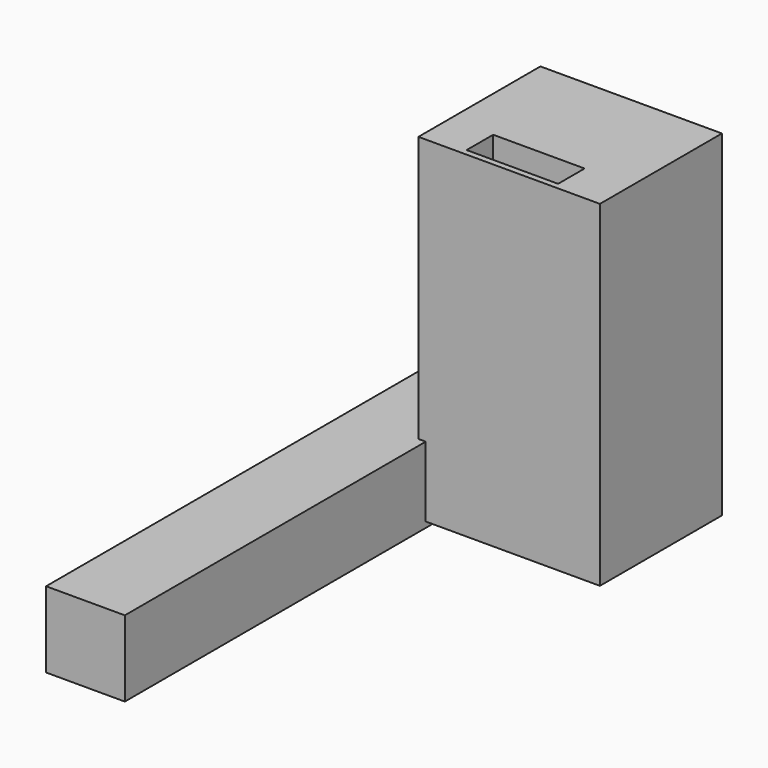
from build123d import *

# Parameters (mm, degrees)
F0_W     = 54.3647520244
F0_H     = 52.432758268
F2_DEPTH = 325.374
F1_W     = 125.3076829016
F1_H     = 105.2813343704
F1_W_2   = 63.1306562573
F1_H_2   = 22.8872485459
F1_R     = 36.1337810963
F3_DEPTH = 232.156


with BuildPart() as f2:
    # F0 (on Front) → F2 (new body)
    with BuildSketch(Plane.XZ):
        with Locations((-82.3284629732, 22.3198619206)):
            Rectangle(F0_W, F0_H)
    extrude(amount=F2_DEPTH)

    # F1 (on Top) → F3 (join)
    with BuildSketch(Plane.XY):
        with Locations((2.4547781795, -13.0648035556)):
            Rectangle(F1_W, F1_H)
        with Locations((1.3104146346, -50.0658545643)):
            Rectangle(F1_W_2, F1_H_2, mode=Mode.SUBTRACT)
        Circle(F1_R, mode=Mode.SUBTRACT)
        Circle(F1_R)
    extrude(amount=F3_DEPTH)


solid = f2.part
